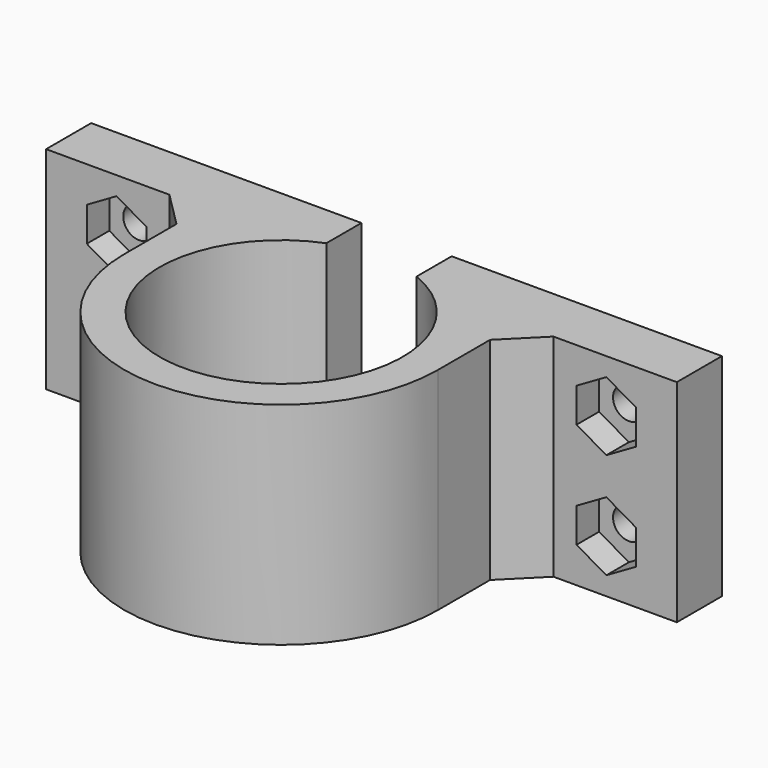
from build123d import *

# Parameters (mm, degrees)
F1_DEPTH = 30
F2_R     = 2.25
F3_DEPTH = 25
F5_DEPTH = 4
F6_SIZE  = 5


with BuildPart() as f1:
    # F0 (on Top) → F1 (new body)
    with BuildSketch(Plane.XY):
        with BuildLine():
            ThreePointArc((6.4, 16.018817), (0, -17.25), (-6.4, 16.018817))
            Line((-6.4, 16.018817), (-6.4, 22.25))
            Line((-6.4, 22.25), (-44.75, 22.25))
            Line((-44.75, 22.25), (-44.75, 14.25))
            Line((-44.75, 14.25), (-22.25, 14.25))
            Line((-22.25, 14.25), (-22.25, 0))
            ThreePointArc((-22.25, 0), (0, -22.25), (22.25, 0))
            Line((22.25, 0), (22.25, 14.25))
            Line((22.25, 14.25), (44.75, 14.25))
            Line((44.75, 14.25), (44.75, 22.25))
            Line((44.75, 22.25), (6.4, 22.25))
            Line((6.4, 22.25), (6.4, 16.018817))
        make_face()
    extrude(amount=F1_DEPTH)

    # F2 (on face) → F3 (cut)
    with BuildSketch(Plane.XZ.offset(-14.25)):
        with Locations((-34.75, 22.5)):
            Circle(F2_R)
        with Locations((-34.75, 7.5)):
            Circle(F2_R)
        with Locations((34.75, 22.5)):
            Circle(F2_R)
        with Locations((34.75, 7.5)):
            Circle(F2_R)
    extrude(amount=-F3_DEPTH, mode=Mode.SUBTRACT)

    # F4 (on face) → F5 (cut)
    with BuildSketch(Plane.XZ.offset(-14.25)):
        Polygon((-30.525, 20.060695), (-30.525, 24.939305), (-34.75, 27.37861), (-38.975, 24.939305), (-38.975, 20.060695), (-34.75, 17.62139), align=None)
        Polygon((-30.525, 5.060695), (-30.525, 9.939305), (-34.75, 12.37861), (-38.975, 9.939305), (-38.975, 5.060695), (-34.75, 2.62139), align=None)
        Polygon((38.975, 5.060695), (38.975, 9.939305), (34.75, 12.37861), (30.525, 9.939305), (30.525, 5.060695), (34.75, 2.62139), align=None)
        Polygon((34.75, 27.37861), (30.525, 24.939305), (30.525, 20.060695), (34.75, 17.62139), (38.975, 20.060695), (38.975, 24.939305), align=None)
    extrude(amount=-F5_DEPTH, mode=Mode.SUBTRACT)

    # F6
    f6_edges = [f1.edges().sort_by_distance(p)[0] for p in [
        (-22.25, 14.25, 15),
        (22.25, 14.25, 15),
    ]]
    chamfer(f6_edges, length=F6_SIZE)


solid = f1.part
